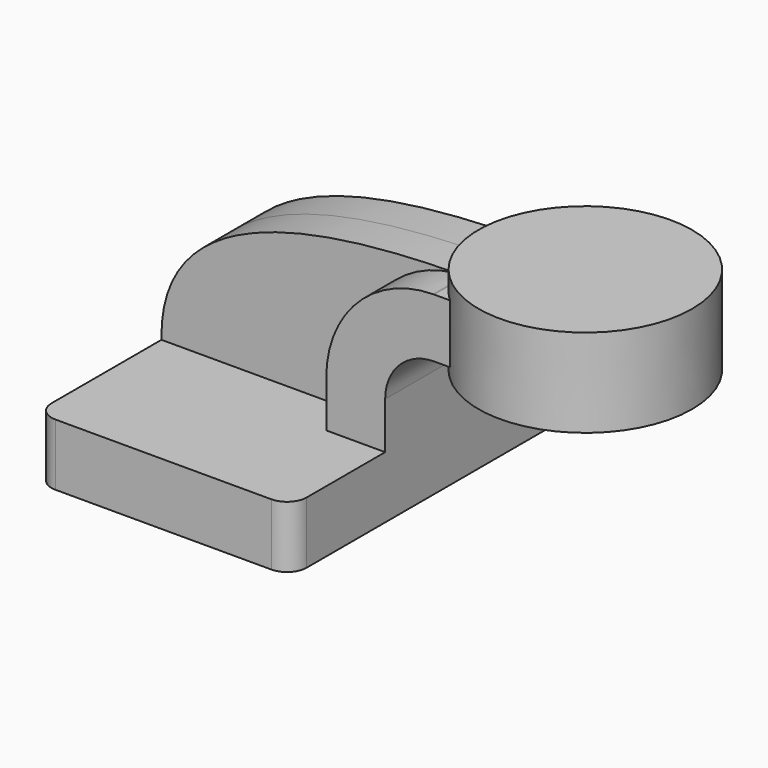
from build123d import *

# Parameters (mm, degrees)
F1_DEPTH = 63.5
F2_DEPTH = 25.4
F4_R     = 6.35
F5_DEPTH = 12.7


with BuildPart() as f1:
    # F0 (on Front) → F1 (new body, symmetric)
    with BuildSketch(Plane.XZ):
        Polygon((-41.275, -10.008192715), (41.275, -10.008192715), (41.275, 10.008192715), (22.225, 10.008192715), (-41.275, 10.008192715), align=None)
    extrude(amount=F1_DEPTH, both=True)

    # F0 (on Front) → F2 (join, symmetric)
    with BuildSketch(Plane.XZ):
        with BuildLine():
            Line((22.225, 10.008192715), (41.275, 10.008192715))
            Line((41.275, 10.008192715), (41.275, 25.136330729))
            ThreePointArc((41.275, 25.136330729), (45.9246798487, 36.3616508803), (57.15, 41.011330729))
            Line((57.15, 41.011330729), (69.4978268266, 41.011330729))
            Line((69.4978268266, 41.011330729), (69.4978268266, 60.061330729))
            Line((69.4978268266, 60.061330729), (57.15, 60.061330729))
            add(Edge.make_bspline(
                [(56.7953338747, 60.0595298514), (56.913590658, 60.0601784283), (57.0318130144, 60.0607785778), (57.15, 60.061330729)],
                knots=[110.1425661044, 110.1425661044, 110.1425661044, 110.1425661044, 110.421000041, 110.421000041, 110.421000041, 110.421000041], degree=3))
            ThreePointArc((56.7953338747, 60.0595298514), (32.3292189947, 49.7063216791), (22.225, 25.136330729))
            Line((22.225, 25.136330729), (22.225, 10.008192715))
        make_face()
        Polygon((69.4978268266, 60.061330729), (69.4978268266, 41.011330729), (85.7105576537, 41.011330729), (85.7214838447, 60.061330729), align=None)
    extrude(amount=F2_DEPTH, both=True)

    # F0 (on Front) → F3 (revolve)
    with BuildSketch(Plane.XZ):
        Polygon((85.7214838447, 60.061330729), (85.7105576537, 41.011330729), (85.7086107135, 37.616807285), (120.2978268266, 37.616807285), (120.2978268266, 66.191807285), (85.725, 66.191807285), align=None)
    revolve(axis=Axis((85.7168053567, 0, 51.904307285), (0.0005735532, 0, 0.9999998355)))

    # F4
    f4_edges = [f1.edges().sort_by_distance(p)[0] for p in [
        (-41.275, -63.5, 0),
        (41.275, -63.5, 0),
        (41.275, 63.5, 0),
        (-41.275, 63.5, 0),
    ]]
    fillet(f4_edges, radius=F4_R)

    # F0 (on Front) → F5 (join, symmetric)
    with BuildSketch(Plane.XZ):
        with BuildLine():
            add(Edge.make_bspline(
                [(-41.275, 10.008192715), (-42.1516341182, 51.9683743999), (10.0154559074, 59.8029665762), (56.7953338747, 60.0595298514)],
                knots=[0, 0, 0, 0, 110.1425661044, 110.1425661044, 110.1425661044, 110.1425661044], degree=3))
            Line((-41.275, 10.008192715), (22.225, 10.008192715))
            Line((22.225, 10.008192715), (22.225, 25.136330729))
            ThreePointArc((22.225, 25.136330729), (32.3292189947, 49.7063216791), (56.7953338747, 60.0595298514))
        make_face()
    extrude(amount=F5_DEPTH, both=True)


solid = f1.part
